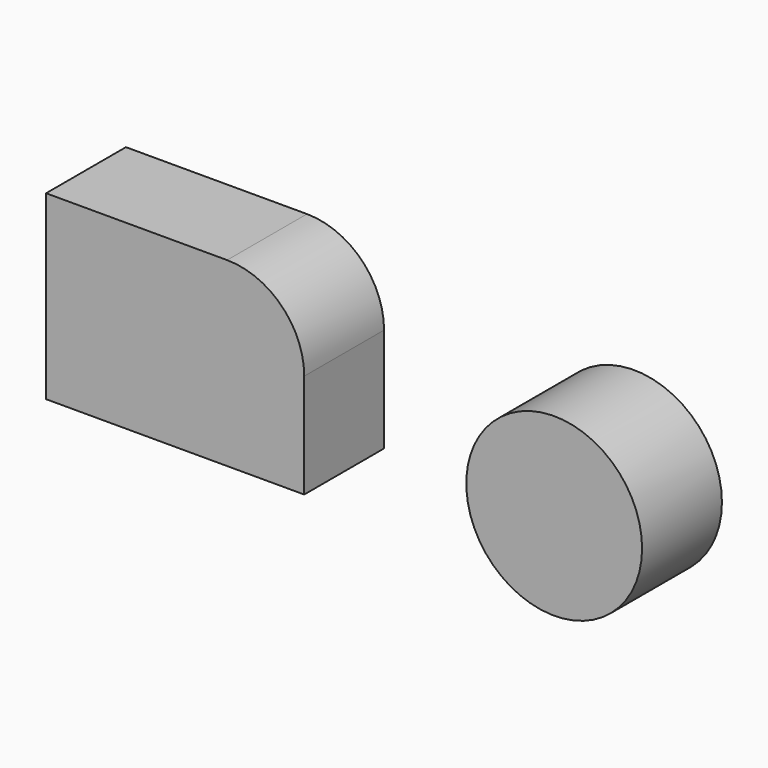
from build123d import *

# Parameters (mm, degrees)
F0_W     = 65.700717
F0_H     = 46.146933
F0_R     = 22.370075
F1_DEPTH = 25.4
F2_R     = 19.622728


with BuildPart() as f1:
    # F0 (on Front) → F1 (new body)
    with BuildSketch(Plane.XZ):
        with Locations((-92.073377, 49.189149)):
            Rectangle(F0_W, F0_H)
        with Locations((4.391956, 42.019427)):
            Circle(F0_R)
    extrude(amount=F1_DEPTH)

    # F2
    f2_edges = [f1.edges().sort_by_distance(p)[0] for p in [
        (-59.223019, -12.7, 72.262615),
    ]]
    fillet(f2_edges, radius=F2_R)


solid = f1.part
